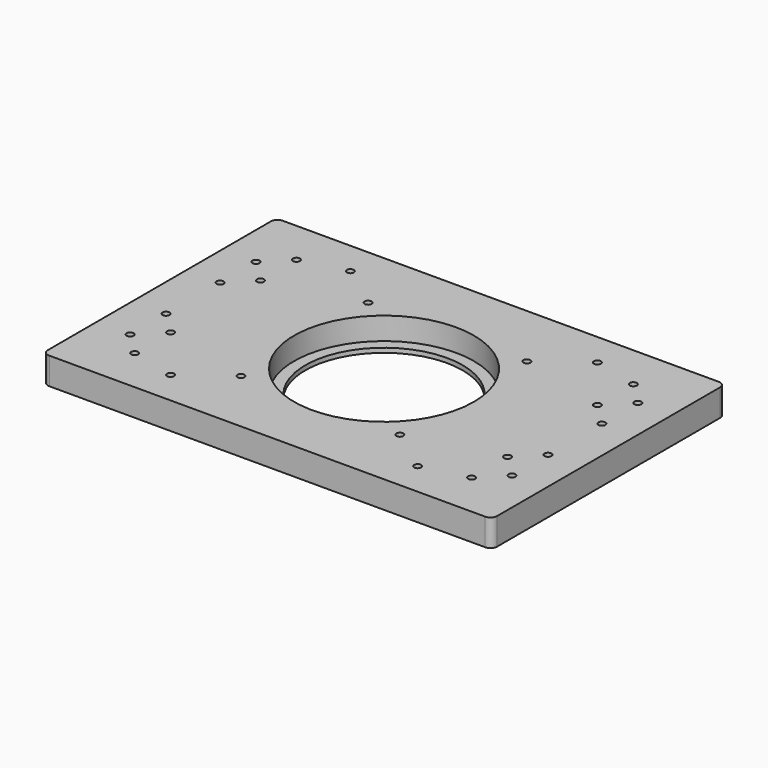
from build123d import *

# Parameters (mm, degrees)
SKETCH_W     = 200
SKETCH_H     = 130
SKETCH_R     = 35
SKETCH_R_2   = 1.5625
PAD_DEPTH    = 12
SKETCH001_R  = 40
POCKET_DEPTH = 10
FILLET_R     = 3


with BuildPart() as part:
    # Sketch → Pad (new body)
    with BuildSketch(Plane.XY):
        with Locations((100, 65)):
            Rectangle(SKETCH_W, SKETCH_H)
        with Locations((100, 65)):
            Circle(SKETCH_R, mode=Mode.SUBTRACT)
        with Locations((45, 115)):
            Circle(SKETCH_R_2, mode=Mode.SUBTRACT)
        with Locations((45, 15)):
            Circle(SKETCH_R_2, mode=Mode.SUBTRACT)
        with Locations((155, 115)):
            Circle(SKETCH_R_2, mode=Mode.SUBTRACT)
        with Locations((155, 15)):
            Circle(SKETCH_R_2, mode=Mode.SUBTRACT)
        with Locations((185, 30)):
            Circle(SKETCH_R_2, mode=Mode.SUBTRACT)
        with Locations((135.353085, 100.338453)):
            Circle(SKETCH_R_2, mode=Mode.SUBTRACT)
        with Locations((64.627773, 29.642413)):
            Circle(SKETCH_R_2, mode=Mode.SUBTRACT)
        with Locations((64.64463, 100.35537)):
            Circle(SKETCH_R_2, mode=Mode.SUBTRACT)
        with Locations((135.352442, 29.63292)):
            Circle(SKETCH_R_2, mode=Mode.SUBTRACT)
        with Locations((175, 20)):
            Circle(SKETCH_R_2, mode=Mode.SUBTRACT)
        with Locations((175, 40)):
            Circle(SKETCH_R_2, mode=Mode.SUBTRACT)
        with Locations((185, 50)):
            Circle(SKETCH_R_2, mode=Mode.SUBTRACT)
        with Locations((175, 90)):
            Circle(SKETCH_R_2, mode=Mode.SUBTRACT)
        with Locations((175, 110)):
            Circle(SKETCH_R_2, mode=Mode.SUBTRACT)
        with Locations((185, 80)):
            Circle(SKETCH_R_2, mode=Mode.SUBTRACT)
        with Locations((185, 100)):
            Circle(SKETCH_R_2, mode=Mode.SUBTRACT)
        with Locations((15, 30)):
            Circle(SKETCH_R_2, mode=Mode.SUBTRACT)
        with Locations((25, 20)):
            Circle(SKETCH_R_2, mode=Mode.SUBTRACT)
        with Locations((25, 40)):
            Circle(SKETCH_R_2, mode=Mode.SUBTRACT)
        with Locations((15, 50)):
            Circle(SKETCH_R_2, mode=Mode.SUBTRACT)
        with Locations((25, 90)):
            Circle(SKETCH_R_2, mode=Mode.SUBTRACT)
        with Locations((25, 110)):
            Circle(SKETCH_R_2, mode=Mode.SUBTRACT)
        with Locations((15, 80)):
            Circle(SKETCH_R_2, mode=Mode.SUBTRACT)
        with Locations((15, 100)):
            Circle(SKETCH_R_2, mode=Mode.SUBTRACT)
    extrude(amount=PAD_DEPTH)

    # Sketch001 (on Face31 of Pad) → Pocket (cut)
    with BuildSketch(Plane.XY.offset(12)):
        with Locations((100, 65)):
            Circle(SKETCH001_R)
    extrude(amount=-POCKET_DEPTH, mode=Mode.SUBTRACT)

    # Fillet
    fillet_edges = [part.edges().sort_by_distance(p)[0] for p in [
        (200, 0, 6),
        (200, 130, 6),
        (0, 0, 6),
        (0, 130, 6),
    ]]
    fillet(fillet_edges, radius=FILLET_R)


solid = part.part
